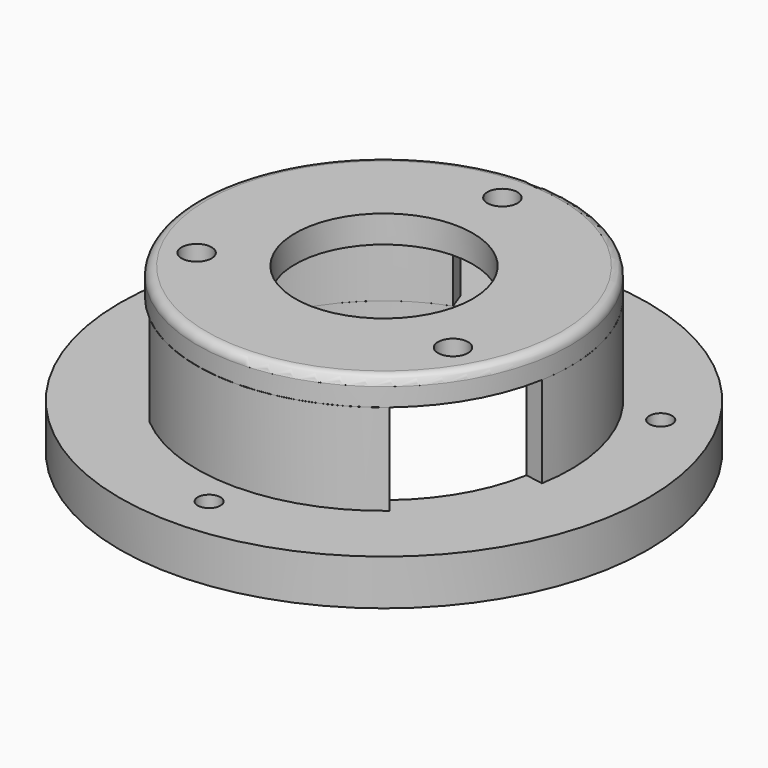
from build123d import *

# Parameters (mm, degrees)
SKETCH_R           = 20.5
PAD_DEPTH          = 3
SKETCH001_R        = 9.75
POCKET_DEPTH       = 3
SKETCH002_R        = 1.65
HOLE_DEPTH         = 25
SKETCH003_R        = 1.65
HOLE001_DEPTH      = 25
PAD001_DEPTH       = 10
POLARPATTERN_COUNT = 3
SKETCH005_R        = 29
PAD002_DEPTH       = 5
SKETCH006_R        = 18.5
POCKET001_DEPTH    = 5
CHAMFER_SIZE       = 1
FILLET_R           = 1
SKETCH007_R        = 1.25
HOLE002_DEPTH      = 25


with BuildPart() as part:
    # Sketch → Pad (new body)
    with BuildSketch(Plane.XY):
        Circle(SKETCH_R)
    extrude(amount=PAD_DEPTH)

    # Sketch001 (on Face3 of Pad) → Pocket (cut)
    with BuildSketch(Plane.XY.offset(3)):
        Circle(SKETCH001_R)
    extrude(amount=-POCKET_DEPTH, mode=Mode.SUBTRACT)

    # Sketch002 (on Face3 of Pocket) → Hole (cut)
    with BuildSketch(Plane.XY.offset(3)):
        with Locations((0, 16.25)):
            Circle(SKETCH002_R)
    extrude(amount=-HOLE_DEPTH, mode=Mode.SUBTRACT)

    # Sketch003 (on Face2 of Hole) → Hole001 (cut)
    with BuildSketch(Plane(origin=(0, 0, 0), x_dir=(1, 0, 0), z_dir=(0, 0, -1))):
        with Locations((-14.072913, 8.125)):
            Circle(SKETCH003_R)
        with Locations((14.072913, 8.125)):
            Circle(SKETCH003_R)
    extrude(amount=-HOLE001_DEPTH, mode=Mode.SUBTRACT)

    # Sketch004 (on Face2 of Hole001) → Pad001 (join)
    with BuildSketch(Plane(origin=(0, 0, 0), x_dir=(1, 0, 0), z_dir=(0, 0, -1))):
        with BuildLine():
            ThreePointArc((11.891571, 14.171822), (0, 18.50666), (-11.891571, 14.171822))
            Line((-13.177146, 15.703911), (-11.891571, 14.171822))
            ThreePointArc((13.177146, 15.703911), (0, 20.506659), (-13.177146, 15.703911))
            Line((11.891571, 14.171822), (13.177146, 15.703911))
        make_face()
    pad001 = extrude(amount=PAD001_DEPTH)

    # PolarPattern: Pad001 ×3 about axis
    polarpattern_axis = Axis((0, 0, 0), (0, 0, -1))
    for i in range(1, POLARPATTERN_COUNT):
        add(pad001.rotate(polarpattern_axis, i * 360 / POLARPATTERN_COUNT))

    # Sketch005 (on Face25 of PolarPattern) → Pad002 (join)
    with BuildSketch(Plane(origin=(0, 0, -10), x_dir=(1, 0, 0), z_dir=(0, 0, -1))):
        Circle(SKETCH005_R)
    extrude(amount=PAD002_DEPTH)

    # Sketch006 (on Face3 of Pad002) → Pocket001 (cut)
    with BuildSketch(Plane(origin=(0, 0, -15), x_dir=(1, 0, 0), z_dir=(0, 0, -1))):
        Circle(SKETCH006_R)
    extrude(amount=-POCKET001_DEPTH, mode=Mode.SUBTRACT)

    # Chamfer
    chamfer_edges = [part.edges().sort_by_distance(p)[0] for p in [
        (15.722913, -8.125, 0),
        (-1.65, 16.25, 0),
        (-12.422913, -8.125, 0),
    ]]
    chamfer(chamfer_edges, length=CHAMFER_SIZE)

    # Fillet
    fillet_edges = [part.edges().sort_by_distance(p)[0] for p in [
        (-20.5, 0, 3),
    ]]
    fillet(fillet_edges, radius=FILLET_R)

    # Sketch007 (on Face33 of Fillet) → Hole002 (cut)
    with BuildSketch(Plane(origin=(0, 0, -15), x_dir=(1, 0, 0), z_dir=(0, 0, -1))):
        with Locations((0, 24)):
            Circle(SKETCH007_R)
        with Locations((-20.78461, -12)):
            Circle(SKETCH007_R)
        with Locations((20.78461, -12)):
            Circle(SKETCH007_R)
    extrude(amount=-HOLE002_DEPTH, mode=Mode.SUBTRACT)


solid = part.part
